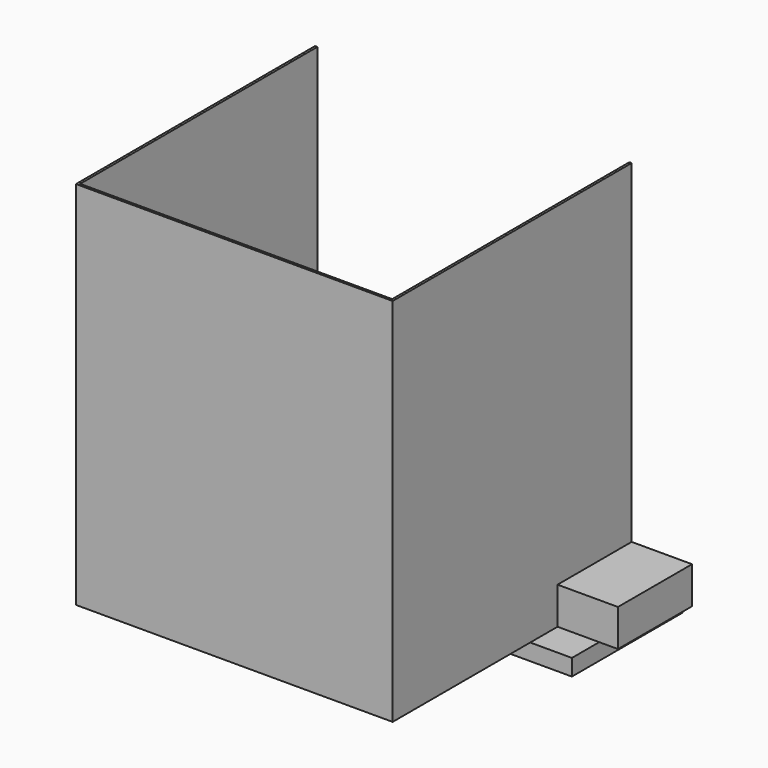
from build123d import *

# Parameters (mm, degrees)
F0_W      = 1223.9625
F0_H      = 347.6625
F1_DEPTH  = 45.1104
F3_W      = 1223.9625
F3_H      = 31.75
F4_DEPTH  = 94.0054
F5_W      = 17.526
F5_H      = 379.4125
F6_DEPTH  = 94.0064
F7_W      = 6.35
F7_H      = 812.8
F7_H_2    = 6.35
F7_W_2    = 855.6625
F8_DEPTH  = 1016
F9_W      = 502.0945
F9_H      = 254
F10_DEPTH = 101.6
F11_R     = 9.525
F12_DEPTH = 94.0064


with BuildPart() as f1:
    # F0 (on Top) → F1 (new body)
    with BuildSketch(Plane.XY):
        with Locations((-2.1177232265, -166.5461386074)):
            Rectangle(F0_W, F0_H)
    extrude(amount=-F1_DEPTH)


with BuildPart() as f4:
    # F3 (on offset) → F4 (new body)
    with BuildSketch(Plane.XY.offset(-45.1104)):
        with Locations((-2.1177232265, 23.1601113926)):
            Rectangle(F3_W, F3_H)
    extrude(amount=F4_DEPTH)


with BuildPart() as f6_tool:
    # F5 (on face) → F6 (new body, through all)
    with BuildSketch(Plane.XY.offset(48.895)):
        with Locations((-2.0859732265, -150.6711386074)):
            Rectangle(F5_W, F5_H)
    extrude(amount=-F6_DEPTH)


with BuildPart() as f1_1:
    add(f1.part)

    # F6: cut by f6_tool
    add(f6_tool.part, mode=Mode.SUBTRACT)


with BuildPart() as f4_1:
    add(f4.part)

    # F6: cut by f6_tool
    add(f6_tool.part, mode=Mode.SUBTRACT)

    # F11 (on face) → F12 (cut, through all)
    with BuildSketch(Plane.XY.offset(48.895)):
        with Locations((-569.6489732265, 23.1601113926)):
            Circle(F11_R)
        with Locations((-55.2989732265, 23.1601113926)):
            Circle(F11_R)
    extrude(amount=-F12_DEPTH, mode=Mode.SUBTRACT)


with BuildPart() as f8:
    # F7 (on face) → F8 (new body)
    with BuildSketch(Plane.XY):
        with Locations((-369.6239732265, -399.1148886074)):
            Rectangle(F7_W, F7_H)
        with Locations((-369.6239732265, -808.6898886074)):
            Rectangle(F7_W, F7_H_2)
        with Locations((61.3822767735, -808.6898886074)):
            Rectangle(F7_W_2, F7_H_2)
        with Locations((492.3885267735, -808.6898886074)):
            Rectangle(F7_W, F7_H_2)
        with Locations((492.3885267735, -399.1148886074)):
            Rectangle(F7_W, F7_H)
    extrude(amount=F8_DEPTH)


with BuildPart() as f10:
    # F9 (on face) → F10 (new body)
    with BuildSketch(Plane.XY):
        with Locations((410.1242767735, -119.7148886074)):
            Rectangle(F9_W, F9_H)
    extrude(amount=F10_DEPTH)


solid = Compound([f1_1.part, f4_1.part, f8.part, f10.part])
